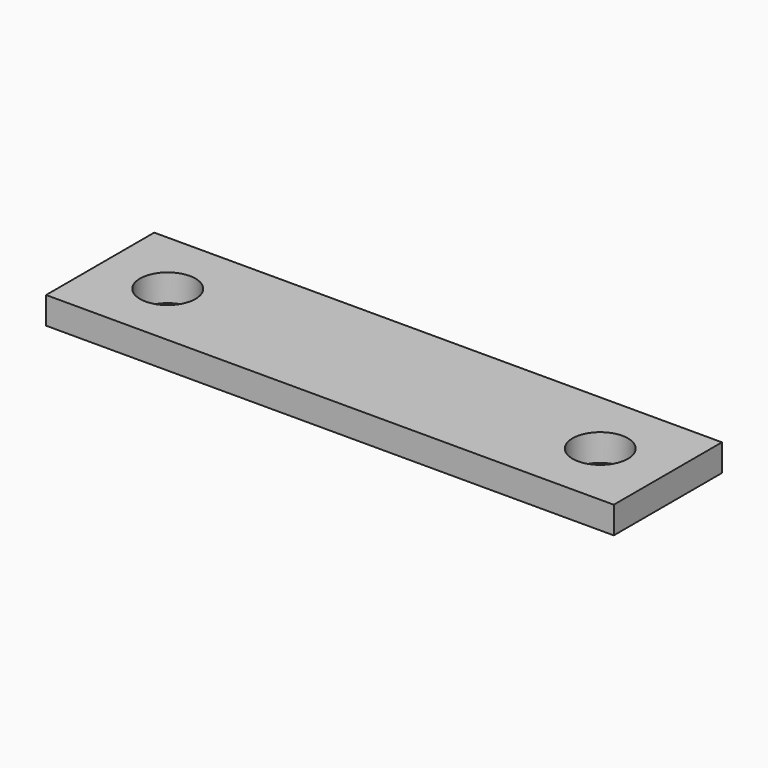
from build123d import *

# Parameters (mm, degrees)
SKETCH004_W  = 42
SKETCH004_H  = 10
SKETCH004_R  = 2.05
PAD002_DEPTH = 2


with BuildPart() as part:
    # Sketch004 (on DatumPlane) → Pad002 (new body)
    with BuildSketch(Plane.XY):
        with Locations((31, 15)):
            Rectangle(SKETCH004_W, SKETCH004_H)
        with Locations((15, 15)):
            Circle(SKETCH004_R, mode=Mode.SUBTRACT)
        with Locations((47, 15)):
            Circle(SKETCH004_R, mode=Mode.SUBTRACT)
    extrude(amount=PAD002_DEPTH)


solid = part.part
